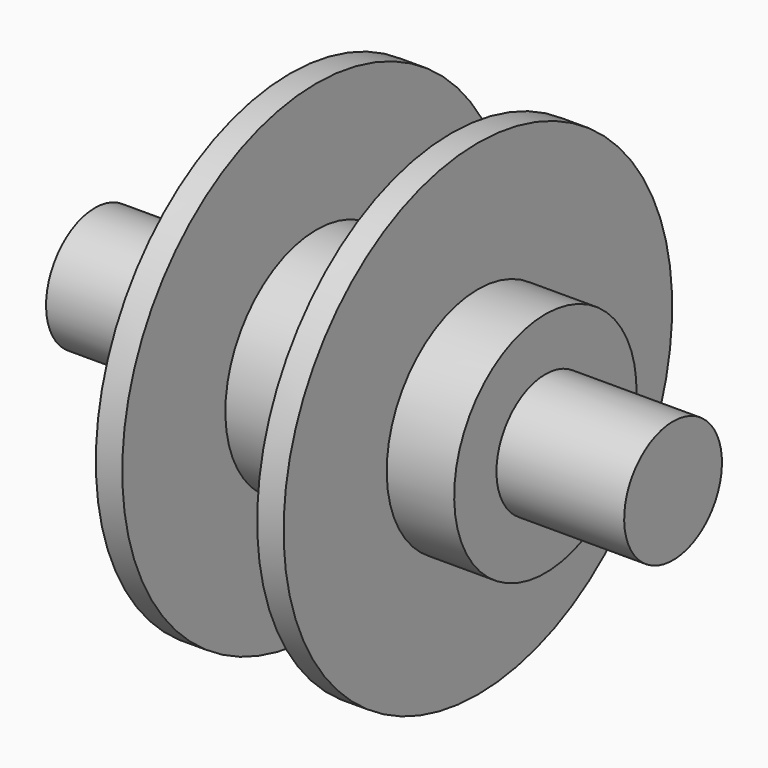
from build123d import *


with BuildPart() as f1:
    # F0 (on Front) → F1 (revolve)
    with BuildSketch(Plane.XZ):
        Polygon((-42.7736, 0), (0, 0), (0, 16.8656), (-9.9822, 16.8656), (-9.9822, 35.941), (-13.8938, 35.941), (-13.8938, 16.8656), (-23.876, 16.8656), (-23.876, 9.0424), (-42.7736, 9.0424), align=None)
        Polygon((0, 16.8656), (0, 0), (42.7736, 0), (42.7736, 9.0424), (23.876, 9.0424), (23.876, 16.8656), (13.8938, 16.8656), (13.8938, 35.941), (9.9822, 35.941), (9.9822, 16.8656), align=None)
    revolve(axis=Axis((-21.3868, 0, 0), (1, 0, 0)))


solid = f1.part
